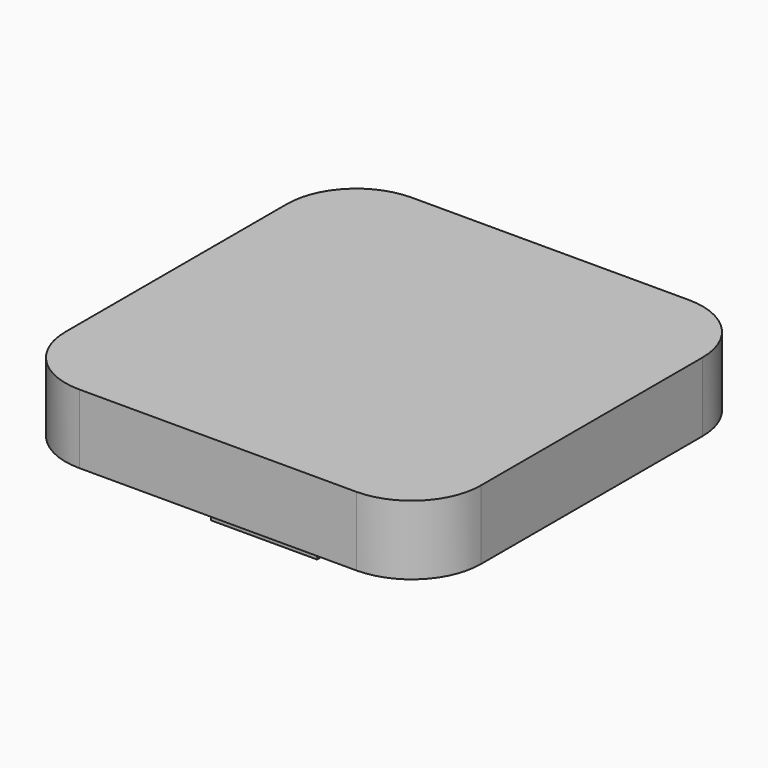
from build123d import *

# Parameters (mm, degrees)
F1_DEPTH = 6.35
F3_DEPTH = 3.81
F3_TAPER = 3


with BuildPart() as f1:
    # F0 (on Top) → F1 (new body)
    with BuildSketch(Plane.XY):
        with BuildLine():
            Line((12.7, 19.05), (-12.7, 19.05))
            ThreePointArc((-12.7, 19.05), (-17.1901280605, 17.1901280605), (-19.05, 12.7))
            Line((-19.05, 12.7), (-19.05, -12.7))
            ThreePointArc((-19.05, -12.7), (-17.1901280605, -17.1901280605), (-12.7, -19.05))
            Line((-12.7, -19.05), (12.7, -19.05))
            ThreePointArc((12.7, -19.05), (17.1901280605, -17.1901280605), (19.05, -12.7))
            Line((19.05, -12.7), (19.05, 12.7))
            ThreePointArc((19.05, 12.7), (17.1901280605, 17.1901280605), (12.7, 19.05))
        make_face()
    extrude(amount=F1_DEPTH)

    # F2 (on Top) → F3 (join)
    with BuildSketch(Plane.XY):
        with BuildLine():
            ThreePointArc((2.38125, 6.35), (2.1487660076, 6.9112660076), (1.5875, 7.14375))
            Line((1.5875, 7.14375), (-1.5875, 7.14375))
            ThreePointArc((-1.5875, 7.14375), (-2.1487660076, 6.9112660076), (-2.38125, 6.35))
            Line((-2.38125, 6.35), (-2.38125, 2.38125))
            Line((-2.38125, 2.38125), (-6.35, 2.38125))
            ThreePointArc((-6.35, 2.38125), (-6.9112660076, 2.1487660076), (-7.14375, 1.5875))
            Line((-7.14375, 1.5875), (-7.14375, -1.5875))
            ThreePointArc((-7.14375, -1.5875), (-6.9112660076, -2.1487660076), (-6.35, -2.38125))
            Line((-6.35, -2.38125), (-2.38125, -2.38125))
            Line((-2.38125, -2.38125), (-2.38125, -6.35))
            ThreePointArc((-2.38125, -6.35), (-2.1487660076, -6.9112660076), (-1.5875, -7.14375))
            Line((-1.5875, -7.14375), (1.5875, -7.14375))
            ThreePointArc((1.5875, -7.14375), (2.1487660076, -6.9112660076), (2.38125, -6.35))
            Line((2.38125, -6.35), (2.38125, -2.38125))
            Line((2.38125, -2.38125), (6.35, -2.38125))
            ThreePointArc((6.35, -2.38125), (6.9112660076, -2.1487660076), (7.14375, -1.5875))
            Line((7.14375, -1.5875), (7.14375, 1.5875))
            ThreePointArc((7.14375, 1.5875), (6.9112660076, 2.1487660076), (6.35, 2.38125))
            Line((6.35, 2.38125), (2.38125, 2.38125))
            Line((2.38125, 2.38125), (2.38125, 6.35))
        make_face()
        with BuildLine():
            ThreePointArc((5.08, -11.684), (5.0056051224, -11.5043948776), (4.826, -11.43))
            Line((4.826, -11.43), (-4.826, -11.43))
            ThreePointArc((-4.826, -11.43), (-5.0056051224, -11.5043948776), (-5.08, -11.684))
            Line((-5.08, -11.684), (-5.08, -13.716))
            ThreePointArc((-5.08, -13.716), (-5.0056051224, -13.8956051224), (-4.826, -13.97))
            Line((-4.826, -13.97), (4.826, -13.97))
            ThreePointArc((4.826, -13.97), (5.0056051224, -13.8956051224), (5.08, -13.716))
            Line((5.08, -13.716), (5.08, -11.684))
        make_face()
    extrude(amount=-F3_DEPTH, taper=F3_TAPER)


solid = f1.part
